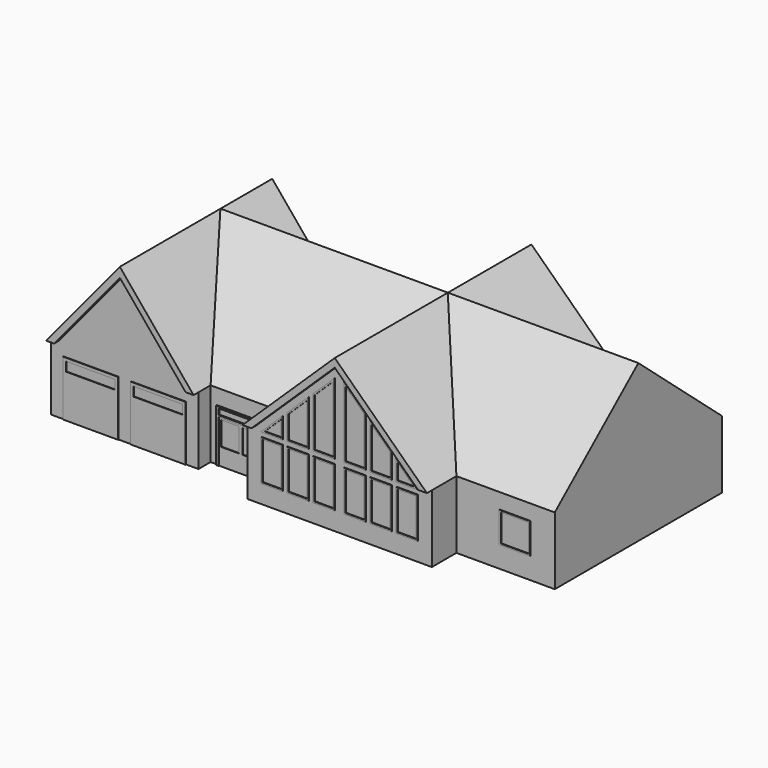
from build123d import *

# Parameters (mm, degrees)
F1_DEPTH  = 86.36
F2_DEPTH  = 86.36
F4_DEPTH  = 142.24
F5_W      = 76.2
F5_H      = 27.94
F6_DEPTH  = 12.7
F7_DEPTH  = 15.24
F8_DEPTH  = 12.7
F9_W      = 8.89
F9_H      = 17.78
F9_W_2    = 7.62
F9_H_2    = 9.8399929702
F10_DEPTH = 0.254
F9_W_3    = 17.78
F9_H_3    = 2.4813897908
F11_DEPTH = 0.508
F12_W     = 8.89
F12_H     = 16.8718803057
F12_W_2   = 7.62
F12_H_2   = 15.6018803057
F13_DEPTH = 0.254
F14_DEPTH = 100.33
F15_W     = 19.685
F15_H     = 24.3529758142
F15_W_2   = 7.3025
F15_H_2   = 14.9739030749
F15_W_3   = 18.415
F15_H_3   = 3.81
F16_DEPTH = 0.254
F17_W     = 6.2561649829
F17_H     = 27.94
F17_W_2   = 69.9438350171
F18_DEPTH = 60.96
F20_DEPTH = 76.2
F21_DEPTH = 2.54
F22_DEPTH = 30.48
F23_W     = 22.86
F23_H     = 22.86
F23_W_2   = 20.32
F23_H_2   = 3.81
F24_DEPTH = 0.254
F25_W     = 12.7
F25_H     = 15.2306016535
F25_W_2   = 11.43
F25_H_2   = 13.9606016535
F26_DEPTH = 0.254
F27_W     = 12.7
F27_H     = 12.7
F27_W_2   = 11.43
F27_H_2   = 11.43
F28_DEPTH = 0.254


with BuildPart() as f1:
    # F0 (on Front) → F1 (new body)
    with BuildSketch(Plane.XZ):
        Polygon((-75.7356458557, -16.2738506757), (-75.7356458557, -44.2138506757), (66.5043541443, -44.2138506757), (66.5043541443, -16.2738506757), (25.8643541443, -16.2738506757), (22.2078805337, -16.2738506757), (-46.679172245, -16.2738506757), (-50.3356458557, -16.2738506757), align=None)
        Polygon((-12.2356458557, 20.5188916444), (-50.3356458557, -16.2738506757), (-46.679172245, -16.2738506757), (-12.2356458557, 16.9878761233), (22.2078805337, -16.2738506757), (25.8643541443, -16.2738506757), align=None)
    extrude(amount=-F1_DEPTH)

    # F0 (on Front) → F2 (join)
    with BuildSketch(Plane.XZ):
        Polygon((-12.2356458557, 16.9878761233), (-46.679172245, -16.2738506757), (22.2078805337, -16.2738506757), align=None)
    extrude(amount=-F2_DEPTH)

    # F3 (on face) → F4 (join)
    with BuildSketch(Plane.YZ.offset(66.5043541443)):
        Polygon((43.18, 20.5353293568), (0, -16.2738506757), (86.36, -16.2738506757), align=None)
    extrude(amount=-F4_DEPTH)

    # F5 (on face) → F6 (join)
    with BuildSketch(Plane.XZ):
        with Locations((-12.2356458557, -30.2438506757)):
            Rectangle(F5_W, F5_H)
    extrude(amount=F6_DEPTH)

    # F0 (on Front) → F7 (join)
    with BuildSketch(Plane.XZ):
        Polygon((-12.2356458557, 20.5188916444), (-50.3356458557, -16.2738506757), (-46.679172245, -16.2738506757), (-12.2356458557, 16.9878761233), (22.2078805337, -16.2738506757), (25.8643541443, -16.2738506757), align=None)
    extrude(amount=F7_DEPTH)

    # F0 (on Front) → F8 (join)
    with BuildSketch(Plane.XZ):
        Polygon((-12.2356458557, 16.9878761233), (-46.679172245, -16.2738506757), (22.2078805337, -16.2738506757), align=None)
    extrude(amount=F8_DEPTH)

    # F9 (on face) → F10 (join)
    with BuildSketch(Plane.XZ):
        with Locations((-67.5190812683, -35.3238506757)):
            Rectangle(F9_W, F9_H)
        with Locations((-67.5190812683, -32.1901161224)):
            Rectangle(F9_W_2, F9_H_2, mode=Mode.SUBTRACT)
        with Locations((-58.6290812683, -35.3238506757)):
            Rectangle(F9_W, F9_H)
        with Locations((-58.6290812683, -32.1901161224)):
            Rectangle(F9_W_2, F9_H_2, mode=Mode.SUBTRACT)
    extrude(amount=F10_DEPTH)

    # F9 (on face) → F11 (join)
    with BuildSketch(Plane.XZ):
        Polygon((-73.1956458557, -22.6238506757), (-73.1956458557, -44.2138506757), (-71.9640812683, -44.2138506757), (-71.9640812683, -26.4338506757), (-63.0740812683, -26.4338506757), (-54.1840812683, -26.4338506757), (-54.1840812683, -44.2138506757), (-52.8756458557, -44.2138506757), (-52.8756458557, -22.6238506757), align=None)
        with Locations((-63.0740812683, -24.4892518967)):
            Rectangle(F9_W_3, F9_H_3, mode=Mode.SUBTRACT)
    extrude(amount=F11_DEPTH)

    # F12 (on face) → F13 (join)
    with BuildSketch(Plane.XZ.offset(12.7)):
        with Locations((15.7043541443, -28.1579105229)):
            Rectangle(F12_W, F12_H)
        with Locations((15.7043541443, -28.1579105229)):
            Rectangle(F12_W_2, F12_H_2, mode=Mode.SUBTRACT)
        with Locations((4.9093541443, -28.1579105229)):
            Rectangle(F12_W, F12_H)
        with Locations((4.9093541443, -28.1579105229)):
            Rectangle(F12_W_2, F12_H_2, mode=Mode.SUBTRACT)
        Polygon((11.2593541443, -9.231997162), (11.2593541443, -17.81697037), (20.1493541443, -17.81697037), align=None)
        Polygon((18.5776739924, -17.18197037), (11.8943541443, -17.18197037), (11.8943541443, -10.7279634143), align=None, mode=Mode.SUBTRACT)
        Polygon((0.4643541443, -17.81697037), (9.3543541443, -17.81697037), (9.3543541443, -7.392360046), (0.4643541443, 1.192613162), align=None)
        Polygon((8.7193541443, -7.6619015543), (8.7193541443, -17.18197037), (1.0993541443, -17.18197037), (1.0993541443, -0.3033530903), align=None, mode=Mode.SUBTRACT)
        Polygon((-1.4406458557, -17.81697037), (-1.4406458557, 3.032250278), (-10.3306458557, 11.6172234861), (-10.3306458557, -17.81697037), align=None)
        Polygon((-9.6956458557, 10.1212572338), (-2.0756458557, 2.7627087697), (-2.0756458557, -17.18197037), (-9.6956458557, -17.18197037), align=None, mode=Mode.SUBTRACT)
        Polygon((-14.1406458557, 11.6172234861), (-23.0306458557, 3.032250278), (-23.0306458557, -17.81697037), (-14.1406458557, -17.81697037), align=None)
        Polygon((-22.3956458557, -17.18197037), (-22.3956458557, 2.7627087697), (-14.7756458557, 10.1212572338), (-14.7756458557, -17.18197037), align=None, mode=Mode.SUBTRACT)
        Polygon((-24.9356458557, -17.81697037), (-24.9356458557, 1.192613162), (-33.8256458557, -7.392360046), (-33.8256458557, -17.81697037), align=None)
        Polygon((-25.5706458557, -0.3033530903), (-25.5706458557, -17.18197037), (-33.1906458557, -17.18197037), (-33.1906458557, -7.6619015543), align=None, mode=Mode.SUBTRACT)
        with Locations((-5.8856458557, -28.1579105229)):
            Rectangle(F12_W, F12_H)
        with Locations((-5.8856458557, -28.1579105229)):
            Rectangle(F12_W_2, F12_H_2, mode=Mode.SUBTRACT)
        with Locations((-18.5856458557, -28.1579105229)):
            Rectangle(F12_W, F12_H)
        with Locations((-18.5856458557, -28.1579105229)):
            Rectangle(F12_W_2, F12_H_2, mode=Mode.SUBTRACT)
        with Locations((-40.1756458557, -28.1579105229)):
            Rectangle(F12_W, F12_H)
        with Locations((-40.1756458557, -28.1579105229)):
            Rectangle(F12_W_2, F12_H_2, mode=Mode.SUBTRACT)
        with Locations((-29.3806458557, -28.1579105229)):
            Rectangle(F12_W, F12_H)
        with Locations((-29.3806458557, -28.1579105229)):
            Rectangle(F12_W_2, F12_H_2, mode=Mode.SUBTRACT)
        Polygon((-35.7306458557, -9.231997162), (-44.6206458557, -17.81697037), (-35.7306458557, -17.81697037), align=None)
        Polygon((-36.3656458557, -10.7279634143), (-36.3656458557, -17.18197037), (-43.0489657037, -17.18197037), align=None, mode=Mode.SUBTRACT)
    extrude(amount=F13_DEPTH)

    # F12 (on face) → F14 (join)
    with BuildSketch(Plane.XZ.offset(12.7)):
        with Locations((-40.1756458557, -28.1579105229)):
            Rectangle(F12_W, F12_H)
        with Locations((-40.1756458557, -28.1579105229)):
            Rectangle(F12_W_2, F12_H_2, mode=Mode.SUBTRACT)
        Polygon((-14.1406458557, 11.6172234861), (-23.0306458557, 3.032250278), (-23.0306458557, -17.81697037), (-14.1406458557, -17.81697037), align=None)
        Polygon((-22.3956458557, -17.18197037), (-22.3956458557, 2.7627087697), (-14.7756458557, 10.1212572338), (-14.7756458557, -17.18197037), align=None, mode=Mode.SUBTRACT)
        Polygon((-24.9356458557, -17.81697037), (-24.9356458557, 1.192613162), (-33.8256458557, -7.392360046), (-33.8256458557, -17.81697037), align=None)
        Polygon((-25.5706458557, -0.3033530903), (-25.5706458557, -17.18197037), (-33.1906458557, -17.18197037), (-33.1906458557, -7.6619015543), align=None, mode=Mode.SUBTRACT)
        Polygon((-1.4406458557, -17.81697037), (-1.4406458557, 3.032250278), (-10.3306458557, 11.6172234861), (-10.3306458557, -17.81697037), align=None)
        Polygon((-9.6956458557, 10.1212572338), (-2.0756458557, 2.7627087697), (-2.0756458557, -17.18197037), (-9.6956458557, -17.18197037), align=None, mode=Mode.SUBTRACT)
        Polygon((-35.7306458557, -9.231997162), (-44.6206458557, -17.81697037), (-35.7306458557, -17.81697037), align=None)
        Polygon((-36.3656458557, -10.7279634143), (-36.3656458557, -17.18197037), (-43.0489657037, -17.18197037), align=None, mode=Mode.SUBTRACT)
        Polygon((0.4643541443, -17.81697037), (9.3543541443, -17.81697037), (9.3543541443, -7.392360046), (0.4643541443, 1.192613162), align=None)
        Polygon((8.7193541443, -7.6619015543), (8.7193541443, -17.18197037), (1.0993541443, -17.18197037), (1.0993541443, -0.3033530903), align=None, mode=Mode.SUBTRACT)
        Polygon((11.2593541443, -9.231997162), (11.2593541443, -17.81697037), (20.1493541443, -17.81697037), align=None)
        Polygon((18.5776739924, -17.18197037), (11.8943541443, -17.18197037), (11.8943541443, -10.7279634143), align=None, mode=Mode.SUBTRACT)
    extrude(amount=-F14_DEPTH)

    # F15 (on face) → F16 (join)
    with BuildSketch(Plane(origin=(0, 86.36, 0), x_dir=(-1, 0, 0), z_dir=(0, 1, 0))):
        with Locations((23.9831458557, -32.0373627686)):
            Rectangle(F15_W, F15_H)
        with Locations((19.0618958557, -33.6978263989)):
            Rectangle(F15_W_2, F15_H_2, mode=Mode.SUBTRACT)
        with Locations((28.9043958557, -33.6978263989)):
            Rectangle(F15_W_2, F15_H_2, mode=Mode.SUBTRACT)
        with Locations((23.9831458557, -22.4008748615)):
            Rectangle(F15_W_3, F15_H_3, mode=Mode.SUBTRACT)
    extrude(amount=F16_DEPTH)

    # F17 (on face) → F18 (join)
    with BuildSketch(Plane(origin=(-75.7356458557, 0, 0), x_dir=(0, -1, 0), z_dir=(-1, 0, 0))):
        with Locations((3.1280824915, -30.2438506757)):
            Rectangle(F17_W, F17_H)
        with Locations((-34.9719175085, -30.2438506757)):
            Rectangle(F17_W_2, F17_H)
    extrude(amount=F18_DEPTH)

    # F19 (on face) → F20 (join)
    with BuildSketch(Plane.XZ.offset(6.2561649829)):
        Polygon((-106.2156458557, 20.5188875243), (-136.6956458557, -16.2738506757), (-133.3972752698, -16.2738506757), (-106.2156458557, 16.5373886578), (-79.0340164415, -16.2738506757), (-75.7356458557, -16.2738506757), align=None)
        Polygon((-106.2156458557, 16.5373886578), (-133.3972752698, -16.2738506757), (-79.0340164415, -16.2738506757), align=None)
    extrude(amount=-F20_DEPTH)

    # F19 (on face) → F21 (join)
    with BuildSketch(Plane.XZ.offset(6.2561649829)):
        Polygon((-106.2156458557, 20.5188875243), (-136.6956458557, -16.2738506757), (-133.3972752698, -16.2738506757), (-106.2156458557, 16.5373886578), (-79.0340164415, -16.2738506757), (-75.7356458557, -16.2738506757), align=None)
    extrude(amount=F21_DEPTH)

    # F17 (on face) → F22 (join)
    with BuildSketch(Plane(origin=(-75.7356458557, 0, 0), x_dir=(0, -1, 0), z_dir=(-1, 0, 0))):
        Polygon((-69.9438350171, -2.2797429337), (-69.9438350171, -16.2738506757), (0, -16.2738506757), (-43.18, 20.5353293568), align=None)
    extrude(amount=F22_DEPTH)

    # F23 (on face) → F24 (join)
    with BuildSketch(Plane.XZ.offset(6.2561649829)):
        with Locations((-92.2456458557, -32.7838506757)):
            Rectangle(F23_W, F23_H)
        with Locations((-92.2651431227, -24.5288506757)):
            Rectangle(F23_W_2, F23_H_2, mode=Mode.SUBTRACT)
        with Locations((-120.1856458557, -32.7838506757)):
            Rectangle(F23_W, F23_H)
        with Locations((-120.1856458557, -24.5288506757)):
            Rectangle(F23_W_2, F23_H_2, mode=Mode.SUBTRACT)
    extrude(amount=F24_DEPTH)

    # F25 (on face) → F26 (join)
    with BuildSketch(Plane(origin=(0, 86.36, 0), x_dir=(-1, 0, 0), z_dir=(0, 1, 0))):
        with Locations((-52.783477509, -27.708549849)):
            Rectangle(F25_W, F25_H)
        with Locations((-52.783477509, -27.708549849)):
            Rectangle(F25_W_2, F25_H_2, mode=Mode.SUBTRACT)
        with Locations((-33.9212268591, -27.708549849)):
            Rectangle(F25_W, F25_H)
        with Locations((-33.9212268591, -27.708549849)):
            Rectangle(F25_W_2, F25_H_2, mode=Mode.SUBTRACT)
        with Locations((-8.1772850826, -27.708549849)):
            Rectangle(F25_W, F25_H)
        with Locations((-8.1772850826, -27.708549849)):
            Rectangle(F25_W_2, F25_H_2, mode=Mode.SUBTRACT)
    extrude(amount=F26_DEPTH)

    # F27 (on face) → F28 (join)
    with BuildSketch(Plane.XZ):
        with Locations((50.1093468679, -28.9738506757)):
            Rectangle(F27_W, F27_H)
        with Locations((50.1093468679, -28.9738506757)):
            Rectangle(F27_W_2, F27_H_2, mode=Mode.SUBTRACT)
    extrude(amount=F28_DEPTH)


solid = f1.part
